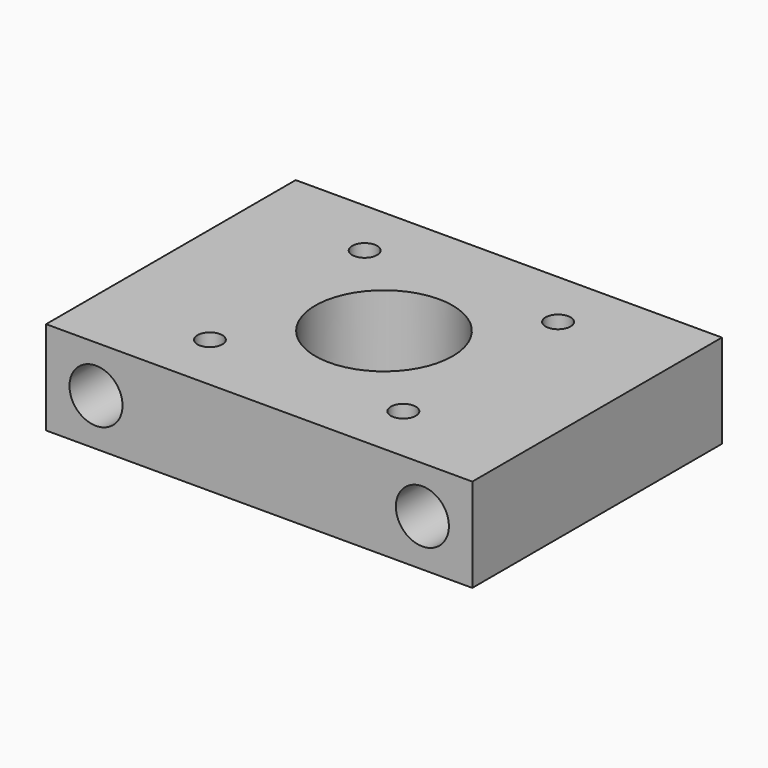
from build123d import *

# Parameters (mm, degrees)
F0_W     = 68.3
F0_H     = 50
F0_R     = 2
F0_R_2   = 11
F1_DEPTH = 15
F2_R     = 4.25
F3_DEPTH = 50


with BuildPart() as f1:
    # F0 (on Top) → F1 (new body)
    with BuildSketch(Plane.XY):
        Rectangle(F0_W, F0_H)
        with Locations((-15.5, -15.5)):
            Circle(F0_R, mode=Mode.SUBTRACT)
        with Locations((15.5, -15.5)):
            Circle(F0_R, mode=Mode.SUBTRACT)
        with Locations((-15.5, 15.5)):
            Circle(F0_R, mode=Mode.SUBTRACT)
        Circle(F0_R_2, mode=Mode.SUBTRACT)
        with Locations((15.5, 15.5)):
            Circle(F0_R, mode=Mode.SUBTRACT)
    extrude(amount=F1_DEPTH)

    # F2 (on face) → F3 (cut, through all)
    with BuildSketch(Plane.XZ.offset(25)):
        with Locations((-26.15, 7.5)):
            Circle(F2_R)
        with Locations((26.15, 7.5)):
            Circle(F2_R)
    extrude(amount=-F3_DEPTH, mode=Mode.SUBTRACT)


solid = f1.part
